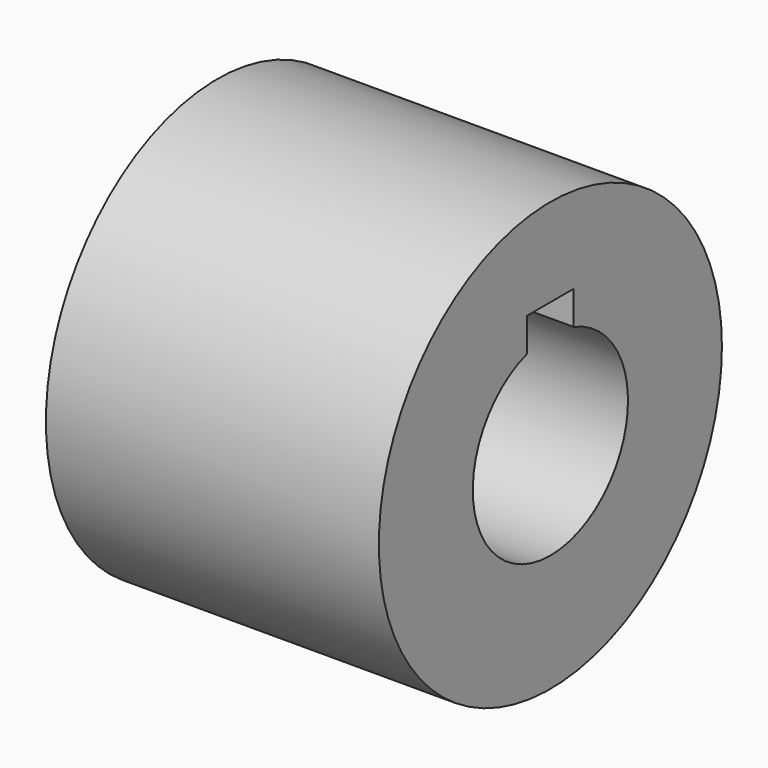
from build123d import *

# Parameters (mm, degrees)
F0_R     = 66.3275
F1_DEPTH = 103
F3_DEPTH = 103.001


with BuildPart() as f1:
    # F0 (on Right) → F1 (new body)
    with BuildSketch(Plane.YZ):
        Circle(F0_R)
    extrude(amount=F1_DEPTH)

    # F2 (on face) → F3 (cut, through all)
    with BuildSketch(Plane.YZ.offset(103)):
        with BuildLine():
            Line((-9, 39), (-9, 28.618176))
            ThreePointArc((-9, 28.618176), (0, -30), (9, 28.618176))
            Line((9, 28.618176), (9, 39))
            Line((9, 39), (-9, 39))
        make_face()
    extrude(amount=-F3_DEPTH, mode=Mode.SUBTRACT)


solid = f1.part
